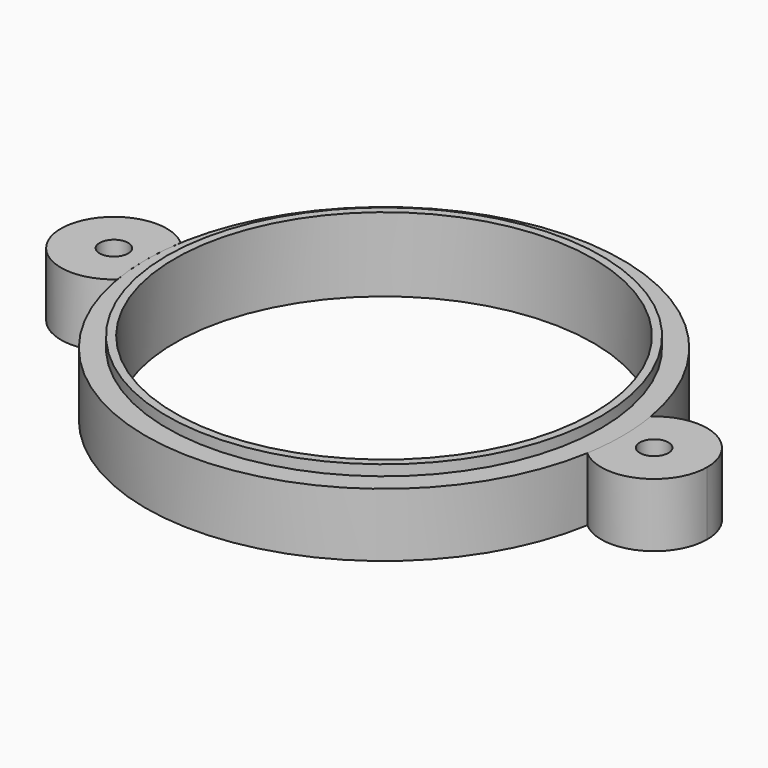
from build123d import *

# Parameters (mm, degrees)
F0_R     = 1.35
F1_DEPTH = 6
F0_R_2   = 19.75
F2_DEPTH = 6
F3_DEPTH = 2
F5_R     = 20.5
F5_R_2   = 19.75
F6_DEPTH = 1


with BuildPart() as f1:
    # F0 (on Top) → F1 (new body)
    with BuildSketch(Plane.XY):
        with BuildLine():
            ThreePointArc((-22.1862745098, -3.7442253372), (-22.5, 0), (-22.1862745098, 3.7442253372))
            ThreePointArc((-22.1862745098, 3.7442253372), (-30.5, 0), (-22.1862745098, -3.7442253372))
        make_face()
        with Locations((-25.5, 0)):
            Circle(F0_R, mode=Mode.SUBTRACT)
    extrude(amount=F1_DEPTH)


with BuildPart() as f1b:
    # F0 (on Top) → F1, piece 2 (new body)
    with BuildSketch(Plane.XY):
        with BuildLine():
            ThreePointArc((22.1862745098, 3.7442253372), (22.4214314493, 1.8786728733), (22.5, 0))
            ThreePointArc((22.5, 0), (22.4214314493, -1.8786728733), (22.1862745098, -3.7442253372))
            ThreePointArc((22.1862745098, -3.7442253372), (27.5532136456, -4.5589816544), (30.5, 0))
            ThreePointArc((30.5, 0), (27.5532136456, 4.5589816544), (22.1862745098, 3.7442253372))
        make_face()
        with Locations((25.5, 0)):
            Circle(F0_R, mode=Mode.SUBTRACT)
    extrude(amount=F1_DEPTH)


with BuildPart() as f2:
    # F0 (on Top) → F2 (new body)
    with BuildSketch(Plane.XY):
        with BuildLine():
            ThreePointArc((22.1862745098, -3.7442253372), (20.5, 0), (22.1862745098, 3.7442253372))
            ThreePointArc((22.1862745098, 3.7442253372), (0, 22.5), (-22.1862745098, 3.7442253372))
            ThreePointArc((-22.1862745098, 3.7442253372), (-20.9410183456, 2.0532136456), (-20.5, 0))
            ThreePointArc((-20.5, 0), (-20.9410183456, -2.0532136456), (-22.1862745098, -3.7442253372))
            ThreePointArc((-22.1862745098, -3.7442253372), (0, -22.5), (22.1862745098, -3.7442253372))
        make_face()
        Circle(F0_R_2, mode=Mode.SUBTRACT)
        with BuildLine():
            ThreePointArc((-20.5, 0), (-20.9410183456, 2.0532136456), (-22.1862745098, 3.7442253372))
            ThreePointArc((-22.1862745098, 3.7442253372), (-22.5, 0), (-22.1862745098, -3.7442253372))
            ThreePointArc((-22.1862745098, -3.7442253372), (-20.9410183456, -2.0532136456), (-20.5, 0))
        make_face()
        with BuildLine():
            ThreePointArc((22.1862745098, -3.7442253372), (22.4214314493, -1.8786728733), (22.5, 0))
            ThreePointArc((22.5, 0), (22.4214314493, 1.8786728733), (22.1862745098, 3.7442253372))
            ThreePointArc((22.1862745098, 3.7442253372), (20.5, 0), (22.1862745098, -3.7442253372))
        make_face()
    extrude(amount=F2_DEPTH)

    # F5 (on face) → F6 (join)
    with BuildSketch(Plane.XY.offset(6)):
        Circle(F5_R)
        Circle(F5_R_2, mode=Mode.SUBTRACT)
    extrude(amount=F6_DEPTH)


with BuildPart() as f3:
    # F0 (on Top) → F3 (new body)
    with BuildSketch(Plane.XY):
        Circle(F0_R_2)
    extrude(amount=F3_DEPTH)


solid = Compound([f1.part, f1b.part, f2.part])
